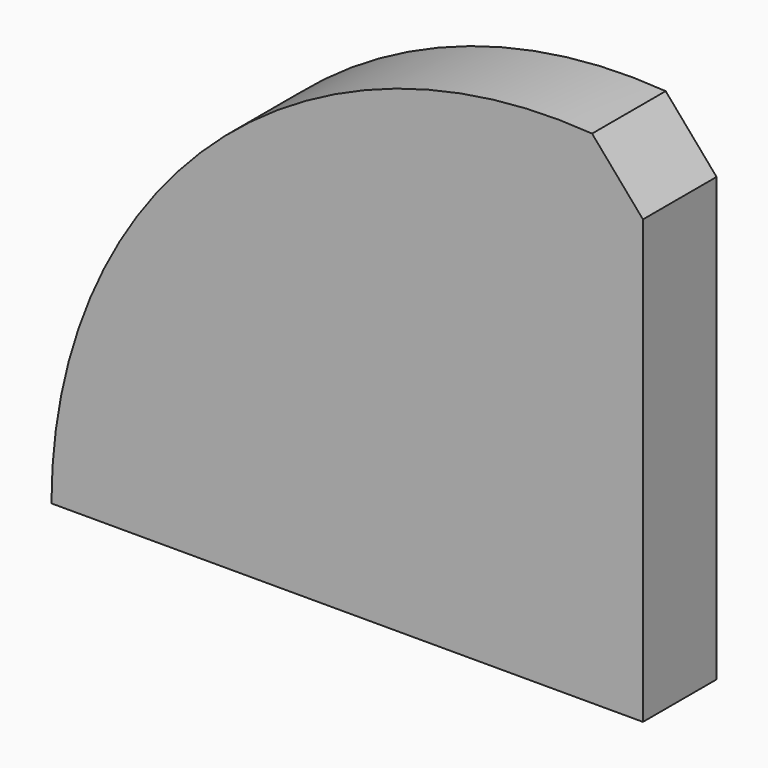
from build123d import *

# Parameters (mm, degrees)
F1_DEPTH = 3
F2_DEPTH = 3


with BuildPart() as f1:
    # F0 (on Front) → F1 (new body)
    with BuildSketch(Plane.XZ):
        with BuildLine():
            Line((-24.887045, 28.848656), (-28.205318, 32.695144))
            ThreePointArc((-28.205318, 32.695144), (-52.967255, 24.040806), (-63.459666, 0))
            Line((-63.459666, 0), (-38.1, 0))
            Line((-38.1, 0), (-24.887045, 0))
            Line((-24.887045, 0), (-24.887045, 28.848656))
        make_face()
    extrude(amount=F1_DEPTH)

    # F0 (on Front) → F2 (join)
    with BuildSketch(Plane.XZ):
        with BuildLine():
            Line((-24.887045, 28.848656), (-28.205318, 32.695144))
            ThreePointArc((-28.205318, 32.695144), (-52.967255, 24.040806), (-63.459666, 0))
            Line((-63.459666, 0), (-38.1, 0))
            Line((-38.1, 0), (-24.887045, 0))
            Line((-24.887045, 0), (-24.887045, 28.848656))
        make_face()
    extrude(amount=-F2_DEPTH)


solid = f1.part
